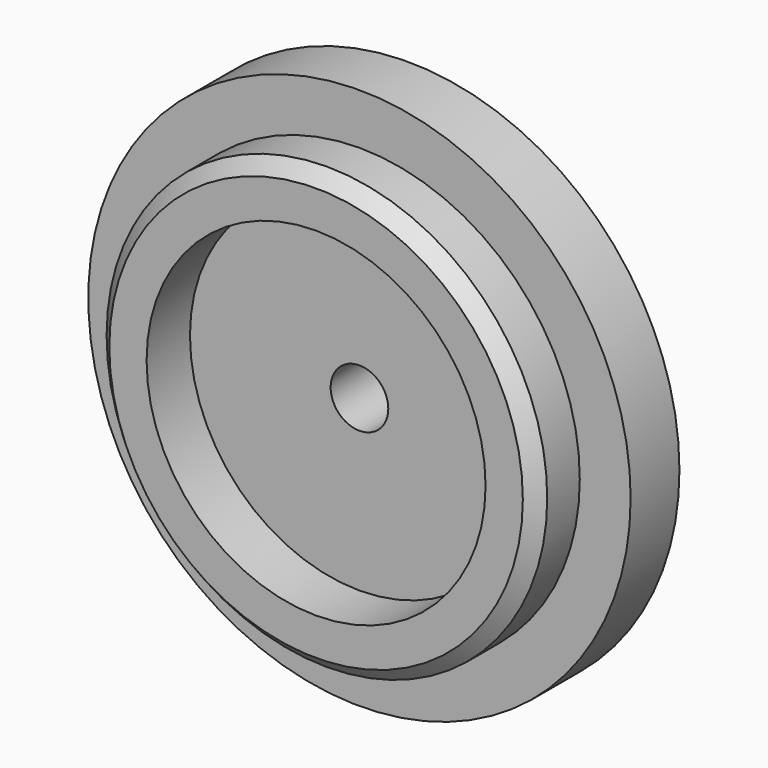
from build123d import *

# Parameters (mm, degrees)
F0_R     = 40
F1_DEPTH = 9
F2_R     = 32.5
F3_DEPTH = 8
F4_R     = 25
F5_DEPTH = 8
F6_R     = 4.25
F7_DEPTH = 25
F8_SIZE  = 2


with BuildPart() as f1:
    # F0 (on Front) → F1 (new body)
    with BuildSketch(Plane.XZ):
        Circle(F0_R)
    extrude(amount=F1_DEPTH)

    # F2 (on face) → F3 (join)
    with BuildSketch(Plane.XZ.offset(9)):
        Circle(F2_R)
    extrude(amount=F3_DEPTH)

    # F4 (on face) → F5 (cut)
    with BuildSketch(Plane.XZ.offset(17)):
        Circle(F4_R)
    extrude(amount=-F5_DEPTH, mode=Mode.SUBTRACT)

    # F6 (on face) → F7 (cut)
    with BuildSketch(Plane.XZ.offset(9)):
        Circle(F6_R)
    extrude(amount=-F7_DEPTH, mode=Mode.SUBTRACT)

    # F8
    f8_edges = [f1.edges().sort_by_distance(p)[0] for p in [
        (-32.5, -17, 0),
    ]]
    chamfer(f8_edges, length=F8_SIZE)


solid = f1.part
